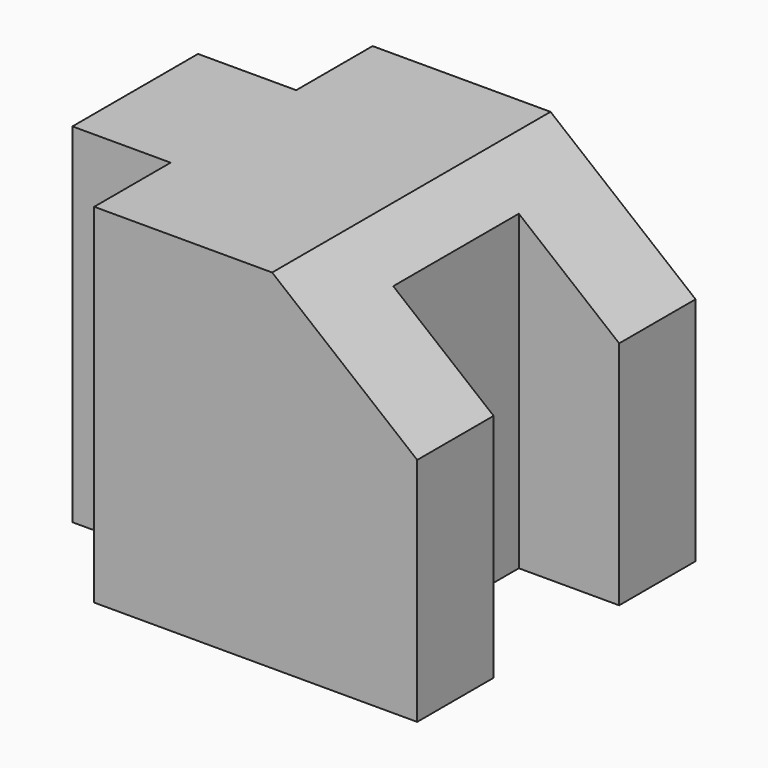
from build123d import *

# Parameters (mm, degrees)
F2_DEPTH = 38.1
F3_DEPTH = 50.8


with BuildPart() as f2:
    # F1 (on Top) → F2 (new body)
    with BuildSketch(Plane.XY):
        Polygon((24.104279, 0), (46.047091, 0), (46.047091, 10.441257), (35.075685, 10.441257), (35.075685, 27.602856), (46.047091, 27.602856), (46.047091, 38.044113), (24.104279, 38.044113), align=None)
        Polygon((10.73552, 0), (24.104279, 0), (24.104279, 38.044113), (10.73552, 38.044113), (10.73552, 27.602856), (0, 27.602856), (0, 10.441257), (10.73552, 10.441257), align=None)
    extrude(amount=F2_DEPTH)

    # F0 (on Front) → F3 (cut)
    with BuildSketch(Plane.XZ):
        Polygon((24.104279, 43.043356), (46.047091, 25.215129), (46.047091, 43.043356), align=None)
    extrude(amount=-F3_DEPTH, mode=Mode.SUBTRACT)


solid = f2.part
